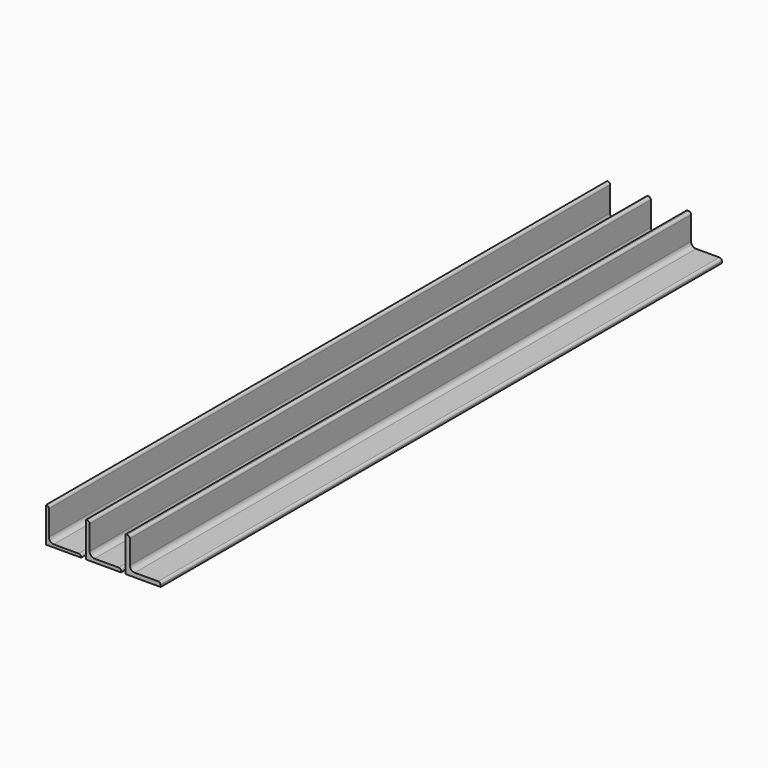
from build123d import *

# Parameters (mm, degrees)
F1_DEPTH = 1000
F2_R     = 3.5
F3_R     = 7
F5_DEPTH = 1000
F6_R     = 3.5
F7_R     = 7
F9_DEPTH = 1000
F10_R    = 3.5
F11_R    = 7


with BuildPart() as f1:
    # F0 (on Front) → F1 (new body)
    with BuildSketch(Plane.XZ):
        Polygon((-85.050546, 50), (-89.050546, 50), (-89.050546, 0), (-39.050546, 0), (-39.050546, 4), (-85.050546, 4), align=None)
    extrude(amount=F1_DEPTH)

    # F2
    f2_edges = [f1.edges().sort_by_distance(p)[0] for p in [
        (-85.050546, -500, 50),
        (-39.050546, -500, 4),
    ]]
    fillet(f2_edges, radius=F2_R)

    # F3
    f3_edges = [f1.edges().sort_by_distance(p)[0] for p in [
        (-85.050546, -500, 4),
    ]]
    fillet(f3_edges, radius=F3_R)


with BuildPart() as f5:
    # F4 (on Front) → F5 (new body)
    with BuildSketch(Plane.XZ):
        Polygon((-27.010812, 50), (-32.010812, 50), (-32.010812, 0), (17.989188, 0), (17.989188, 5), (-27.010812, 5), align=None)
    extrude(amount=F5_DEPTH)

    # F6
    f6_edges = [f5.edges().sort_by_distance(p)[0] for p in [
        (17.989188, -500, 5),
        (-27.010812, -500, 50),
    ]]
    fillet(f6_edges, radius=F6_R)

    # F7
    f7_edges = [f5.edges().sort_by_distance(p)[0] for p in [
        (-27.010812, -500, 5),
    ]]
    fillet(f7_edges, radius=F7_R)


with BuildPart() as f9:
    # F8 (on Front) → F9 (new body)
    with BuildSketch(Plane.XZ):
        Polygon((30.310179, 50), (24.310179, 50), (24.310179, 0), (74.310179, 0), (74.310179, 6), (30.310179, 6), align=None)
    extrude(amount=F9_DEPTH)

    # F10
    f10_edges = [f9.edges().sort_by_distance(p)[0] for p in [
        (30.310179, -500, 50),
        (74.310179, -500, 6),
    ]]
    fillet(f10_edges, radius=F10_R)

    # F11
    f11_edges = [f9.edges().sort_by_distance(p)[0] for p in [
        (30.310179, -500, 6),
    ]]
    fillet(f11_edges, radius=F11_R)


solid = Compound([f1.part, f5.part, f9.part])
